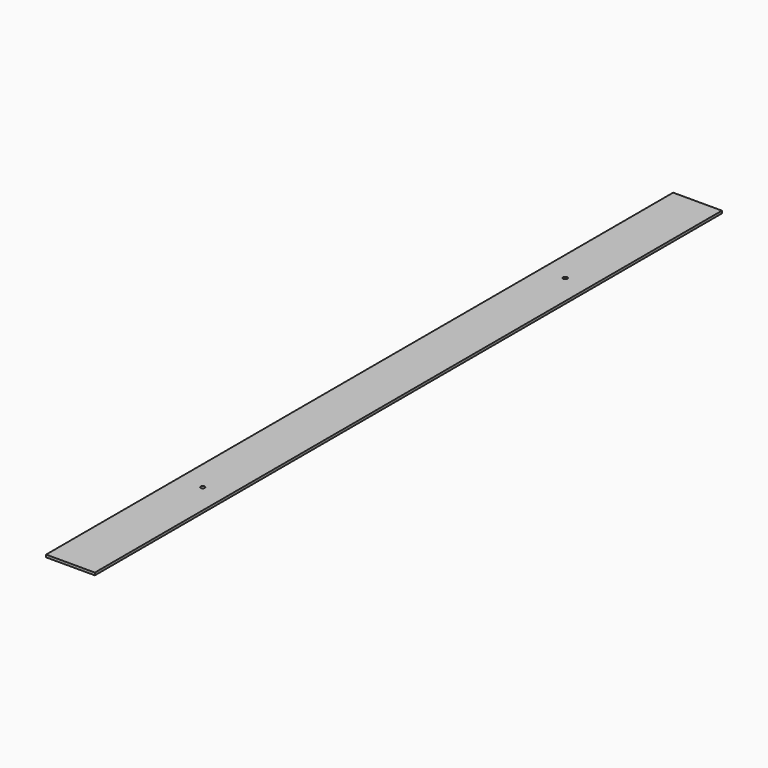
from build123d import *

# Parameters (mm, degrees)
SKETCH_W  = 59
SKETCH_H  = 948
SKETCH_R  = 2.5
PAD_DEPTH = 3


with BuildPart() as part:
    # Sketch → Pad (new body)
    with BuildSketch(Plane.XY):
        with Locations((29.5, 474)):
            Rectangle(SKETCH_W, SKETCH_H)
        with Locations((29.5, 200)):
            Circle(SKETCH_R, mode=Mode.SUBTRACT)
        with Locations((29.5, 748)):
            Circle(SKETCH_R, mode=Mode.SUBTRACT)
    extrude(amount=PAD_DEPTH)


solid = part.part
